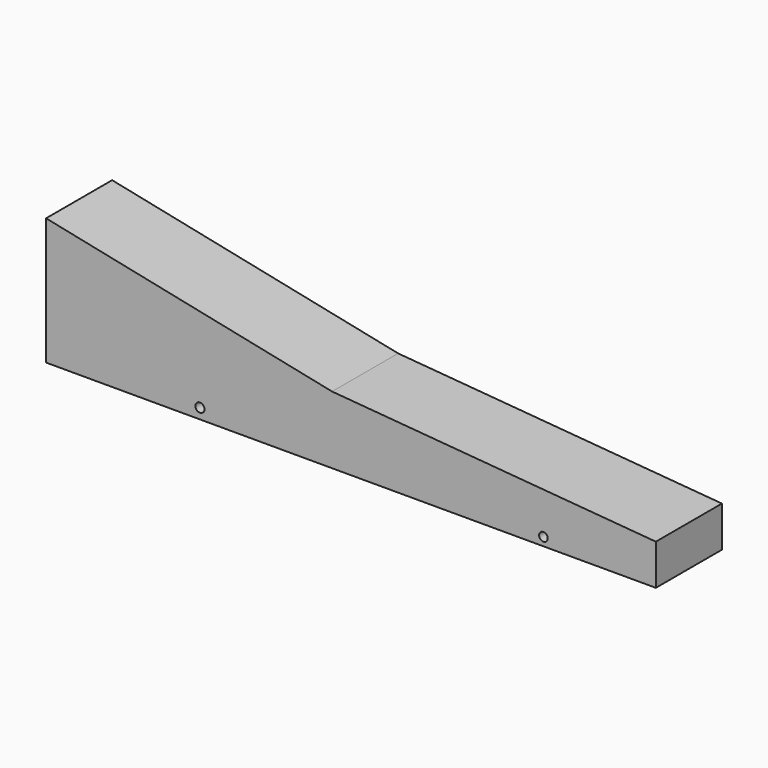
from build123d import *

# Parameters (mm, degrees)
F1_DEPTH = 41.275
F2_R     = 9.525
F3_DEPTH = 53.34
F5_DEPTH = 55.372
F6_R     = 2.271843
F7_DEPTH = 106.934
F8_R     = 2.155263
F9_DEPTH = 91.948


with BuildPart() as f1:
    # F0 (on Front) → F1 (new body)
    with BuildSketch(Plane.XZ):
        Polygon((237.607324, -13.441301), (-67.192676, 29.738699), (-67.192676, -33.761301), (237.607324, -33.761301), align=None)
    extrude(amount=-F1_DEPTH)

    # F2 (on face) → F3 (cut)
    with BuildSketch(Plane(origin=(-67.192676, 0, 0), x_dir=(0, -1, 0), z_dir=(-1, 0, 0))):
        with Locations((-20.6375, -2.011301)):
            Circle(F2_R)
    extrude(amount=-F3_DEPTH, mode=Mode.SUBTRACT)

    # F4 (on face) → F5 (cut)
    with BuildSketch(Plane.XZ):
        Polygon((237.607324, -13.441301), (-67.192676, 29.738699), (75.7569, 0), align=None)
    extrude(amount=-F5_DEPTH, mode=Mode.SUBTRACT)

    # F6 (on Front) → F7 (cut)
    with BuildSketch(Plane.XZ):
        with Locations((9.710665, -28.575001)):
            Circle(F6_R)
    extrude(amount=-F7_DEPTH, mode=Mode.SUBTRACT)

    # F8 (on face) → F9 (cut)
    with BuildSketch(Plane.XZ):
        with Locations((181.414664, -29.591002)):
            Circle(F8_R)
    extrude(amount=-F9_DEPTH, mode=Mode.SUBTRACT)


solid = f1.part
